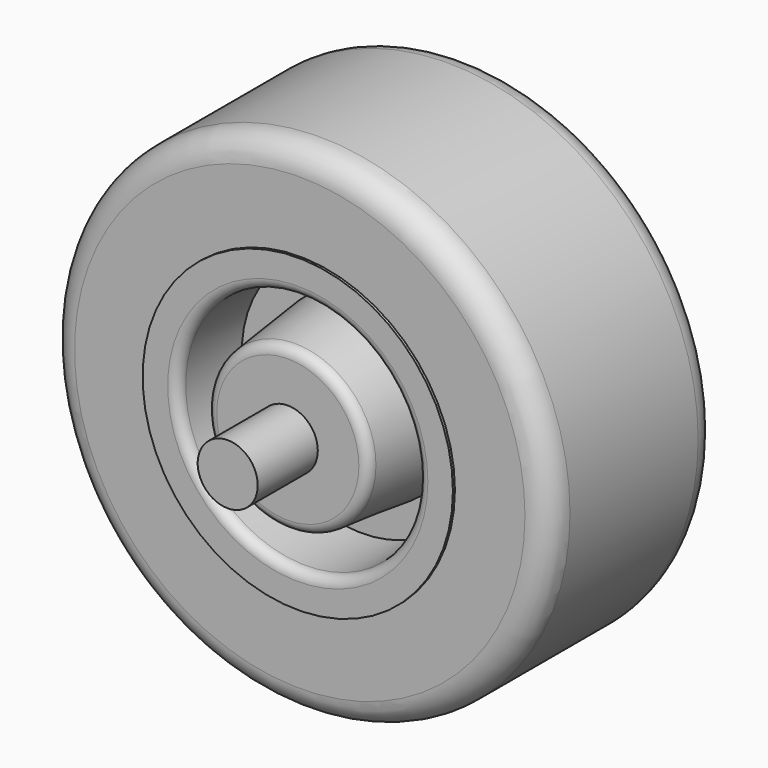
from build123d import *

# Parameters (mm, degrees)
FILLET_R      = 1
SKETCH001_R   = 25
SKETCH001_R_2 = 15.5
PAD_DEPTH     = 10.5
FILLET001_R   = 2.5
SKETCH002_R   = 3
PAD001_DEPTH  = 19.5


with BuildPart() as obj1:
    # Sketch → Revolution (revolve)
    with BuildSketch(Plane.XY):
        Polygon((3, 0), (3, 12), (8, 12), (9, 2.75), (12, 2.75), (12, 10.75), (15.5, 10.75), (15.5, 0), align=None)
    revolution = revolve(axis=Axis((0, 0, 0), (0, 1, 0)))

    # Mirrored: Revolution across XZ
    add(revolution.mirror(Plane.XZ))

    # Fillet
    fillet_edges = [obj1.edges().sort_by_distance(p)[0] for p in [
        (-8, -12, 0),
        (-12, -10.75, 0),
        (-12, 10.75, 0),
        (-8, 12, 0),
    ]]
    fillet(fillet_edges, radius=FILLET_R)


with BuildPart() as rubber:
    # Sketch001 → Pad (new body, symmetric)
    with BuildSketch(Plane.XZ):
        Circle(SKETCH001_R)
        Circle(SKETCH001_R_2, mode=Mode.SUBTRACT)
    extrude(amount=PAD_DEPTH, both=True)

    # Fillet001
    fillet001_edges = [rubber.edges().sort_by_distance(p)[0] for p in [
        (-25, 10.5, 0),
        (-25, -10.5, 0),
    ]]
    fillet(fillet001_edges, radius=FILLET001_R)


with BuildPart() as body002:
    # Sketch002 → Pad001 (new body, symmetric)
    with BuildSketch(Plane.XZ):
        Circle(SKETCH002_R)
    extrude(amount=PAD001_DEPTH, both=True)


solid = Compound([obj1.part, rubber.part, body002.part])
